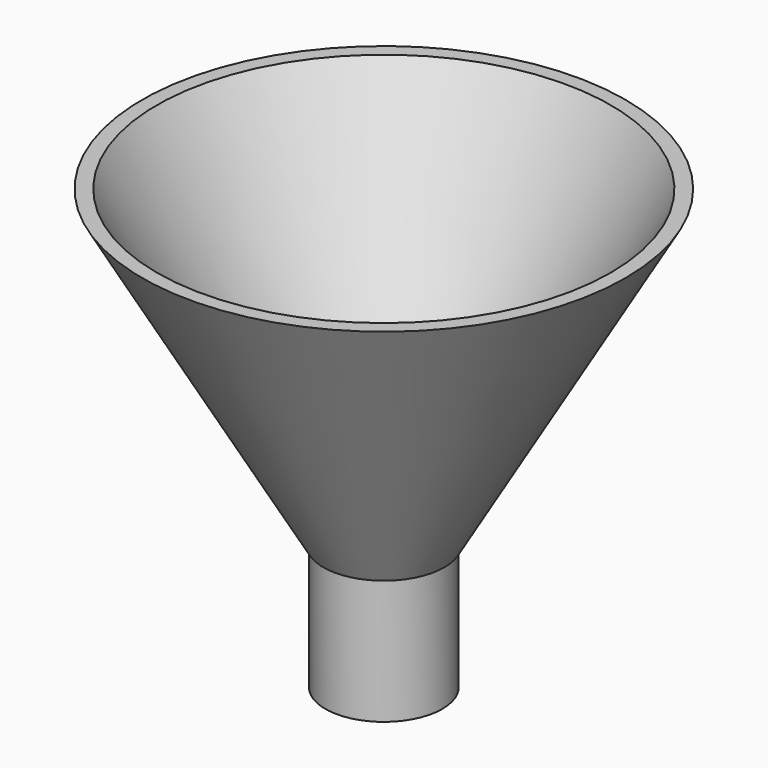
from build123d import *

# Parameters (mm, degrees)
F0_R     = 2.8
F0_R_2   = 2.2
F1_DEPTH = 6


with BuildPart() as f1:
    # F0 (on Top) → F1 (new body)
    with BuildSketch(Plane.XY):
        Circle(F0_R)
        Circle(F0_R_2, mode=Mode.SUBTRACT)
    extrude(amount=F1_DEPTH)

    # F2 (on Front) → F3 (revolve)
    with BuildSketch(Plane.XZ):
        Polygon((10.860254, 21), (2.2, 6), (2.9, 6), (11.560254, 21), align=None)
    revolve(axis=Axis((0, 0, 15.443827), (0, 0, 1)))


solid = f1.part
